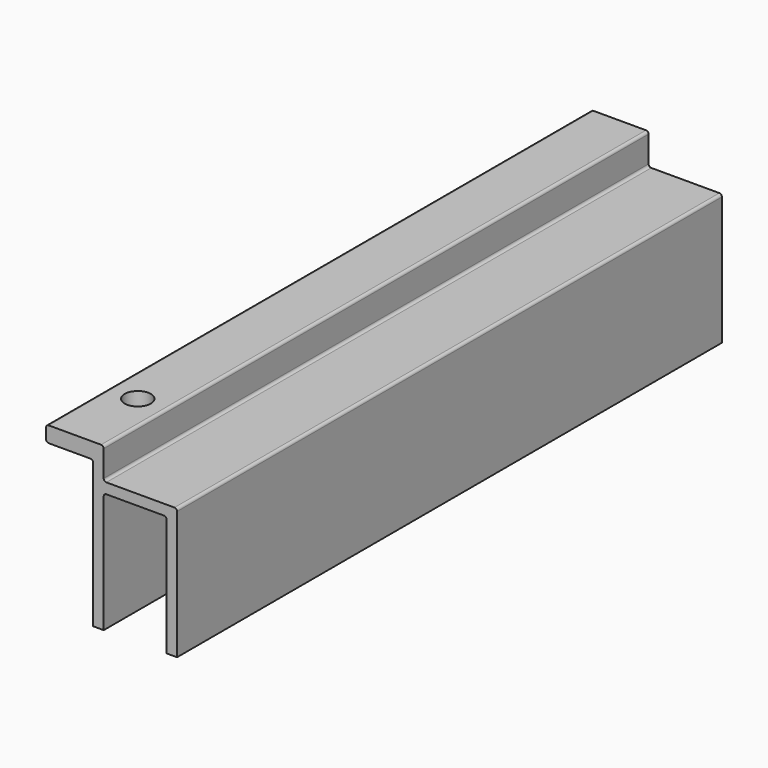
from build123d import *

# Parameters (mm, degrees)
F1_DEPTH = 130
F3_D     = 5


with BuildPart() as f1:
    # F0 (on Front) → F1 (new body)
    with BuildSketch(Plane.XZ):
        with BuildLine():
            Line((-2, 0), (0, 0))
            Line((0, 0), (0, 24.5))
            ThreePointArc((0, 24.5), (-0.146447, 24.853553), (-0.5, 25))
            Line((-0.5, 25), (-13.5, 25))
            ThreePointArc((-13.5, 25), (-13.853553, 25.146447), (-14, 25.5))
            Line((-14, 25.5), (-14, 30.5))
            ThreePointArc((-14, 30.5), (-14.146447, 30.853553), (-14.5, 31))
            Line((-14.5, 31), (-24.5, 31))
            ThreePointArc((-24.5, 31), (-24.853553, 30.853553), (-25, 30.5))
            Line((-25, 30.5), (-25, 28.5))
            ThreePointArc((-25, 28.5), (-24.853553, 28.146447), (-24.5, 28))
            Line((-24.5, 28), (-16.5, 28))
            ThreePointArc((-16.5, 28), (-16.146447, 27.853553), (-16, 27.5))
            Line((-16, 27.5), (-16, 0))
            Line((-16, 0), (-14, 0))
            Line((-14, 0), (-14, 22.5))
            ThreePointArc((-14, 22.5), (-13.853553, 22.853553), (-13.5, 23))
            Line((-13.5, 23), (-2.5, 23))
            ThreePointArc((-2.5, 23), (-2.146447, 22.853553), (-2, 22.5))
            Line((-2, 22.5), (-2, 0))
        make_face()
    extrude(amount=F1_DEPTH)

    # F3 (through all)
    with Locations(Plane.XY.offset(31)):
        with Locations((-19.5, -115)):
            Hole(F3_D / 2)


solid = f1.part
